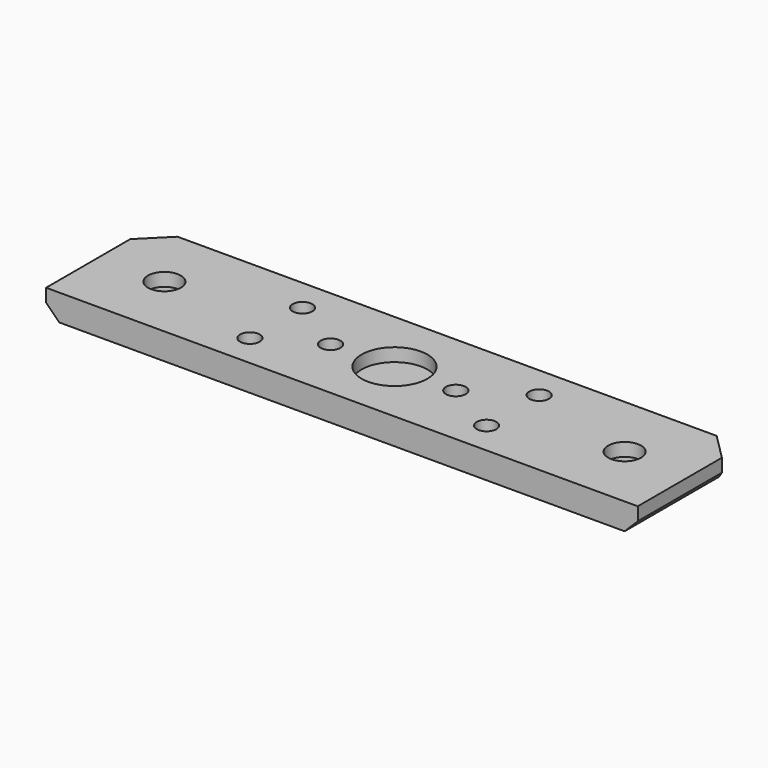
from build123d import *

# Parameters (mm, degrees)
CYLINDER1675_R              = 1.5
CYLINDER1675_DEPTH          = 20
CYLINDER1676_R              = 1.5
CYLINDER1676_DEPTH          = 20
COMPOUND830_ROLL_ANGLE      = 90
COMPOUND830_PLACEMENT_ANGLE = 90
CYLINDER1665_R              = 2.5
CYLINDER1665_DEPTH          = 20
CYLINDER1664_R              = 2.5
CYLINDER1664_DEPTH          = 20
CYLINDER1663_R              = 5
CYLINDER1663_DEPTH          = 5
CYLINDER1662_R              = 5
CYLINDER1662_DEPTH          = 5
CYLINDER1659_R              = 3
CYLINDER1659_DEPTH          = 3
CYLINDER1660_R              = 3
CYLINDER1660_DEPTH          = 3
CYLINDER1661_R              = 3
CYLINDER1661_DEPTH          = 3
CYLINDER1658_R              = 3
CYLINDER1658_DEPTH          = 3
CYLINDER1651_R              = 1.5
CYLINDER1651_DEPTH          = 60
CYLINDER1652_R              = 1.5
CYLINDER1652_DEPTH          = 60
CYLINDER1653_R              = 1.5
CYLINDER1653_DEPTH          = 60
CYLINDER1650_R              = 1.5
CYLINDER1650_DEPTH          = 60
CYLINDER1617_R              = 5
CYLINDER1617_DEPTH          = 5
BOX643_W                    = 90
BOX643_H                    = 20
BOX643_DEPTH                = 4
CHAMFER040_SIZE             = 4
CHAMFER041_SIZE             = 2


with BuildPart() as obj1:
    # Cylinder1675 → Cylinder1675 (new body)
    with BuildSketch(Plane(origin=(15.75, 114, 58.525), x_dir=(-1, 0, 0), z_dir=(0, 1, 0))):
        Circle(CYLINDER1675_R)
    extrude(amount=CYLINDER1675_DEPTH)


with BuildPart() as compound831:
    # Cylinder1676 → Cylinder1676 (new body)
    with BuildSketch(Plane(origin=(15.75, 114, 39.475), x_dir=(-1, 0, 0), z_dir=(0, 1, 0))):
        Circle(CYLINDER1676_R)
    extrude(amount=CYLINDER1676_DEPTH)

    # Compound830: union obj1
    add(obj1.part)


with BuildPart() as compound831_1:
    # Compound830 roll: moved
    add(compound831.part.rotate(Axis((0, 0, 0), (1, 0, 0)), COMPOUND830_ROLL_ANGLE))


with BuildPart() as compound831_2:
    # Compound830 placement: moved
    add(compound831_1.part.moved(Location((-49, 0, -96))).rotate(Axis((-49, 0, -96), (0, 0, 1)), COMPOUND830_PLACEMENT_ANGLE))


with BuildPart() as compound831_3:
    # Compound831 placement: moved
    add(compound831_2.part.moved(Location((0, 74, -72))))


with BuildPart() as obj2:
    # Cylinder1665 → Cylinder1665 (new body)
    with BuildSketch(Plane(origin=(-35, 90, -59), x_dir=(1, 0, 0), z_dir=(0, 0, 1))):
        Circle(CYLINDER1665_R)
    extrude(amount=CYLINDER1665_DEPTH)


with BuildPart() as compound817:
    # Cylinder1664 → Cylinder1664 (new body)
    with BuildSketch(Plane(origin=(35, 90, -59), x_dir=(1, 0, 0), z_dir=(0, 0, 1))):
        Circle(CYLINDER1664_R)
    extrude(amount=CYLINDER1664_DEPTH)

    # Compound817: union obj2
    add(obj2.part)


with BuildPart() as obj3:
    # Cylinder1663 → Cylinder1663 (new body)
    with BuildSketch(Plane(origin=(-35, 90, -59), x_dir=(1, 0, 0), z_dir=(0, 0, 1))):
        Circle(CYLINDER1663_R)
    extrude(amount=CYLINDER1663_DEPTH)


with BuildPart() as compound816:
    # Cylinder1662 → Cylinder1662 (new body)
    with BuildSketch(Plane(origin=(35, 90, -59), x_dir=(1, 0, 0), z_dir=(0, 0, 1))):
        Circle(CYLINDER1662_R)
    extrude(amount=CYLINDER1662_DEPTH)

    # Compound816: union obj3
    add(obj3.part)


with BuildPart() as obj4:
    # Cylinder1659 → Cylinder1659 (new body)
    with BuildSketch(Plane(origin=(18, 85, -57), x_dir=(1, 0, 0), z_dir=(0, 0, 1))):
        Circle(CYLINDER1659_R)
    extrude(amount=CYLINDER1659_DEPTH)


with BuildPart() as obj5:
    # Cylinder1660 → Cylinder1660 (new body)
    with BuildSketch(Plane(origin=(-18, 85, -57), x_dir=(1, 0, 0), z_dir=(0, 0, 1))):
        Circle(CYLINDER1660_R)
    extrude(amount=CYLINDER1660_DEPTH)


with BuildPart() as obj6:
    # Cylinder1661 → Cylinder1661 (new body)
    with BuildSketch(Plane(origin=(-18, 95, -57), x_dir=(1, 0, 0), z_dir=(0, 0, 1))):
        Circle(CYLINDER1661_R)
    extrude(amount=CYLINDER1661_DEPTH)


with BuildPart() as compound815:
    # Cylinder1658 → Cylinder1658 (new body)
    with BuildSketch(Plane(origin=(18, 95, -57), x_dir=(1, 0, 0), z_dir=(0, 0, 1))):
        Circle(CYLINDER1658_R)
    extrude(amount=CYLINDER1658_DEPTH)

    # Compound815: union obj4, obj5, obj6
    add(obj4.part)
    add(obj5.part)
    add(obj6.part)


with BuildPart() as obj7:
    # Cylinder1651 → Cylinder1651 (new body)
    with BuildSketch(Plane(origin=(18, 85, -57), x_dir=(1, 0, 0), z_dir=(0, 0, 1))):
        Circle(CYLINDER1651_R)
    extrude(amount=CYLINDER1651_DEPTH)


with BuildPart() as obj8:
    # Cylinder1652 → Cylinder1652 (new body)
    with BuildSketch(Plane(origin=(-18, 85, -57), x_dir=(1, 0, 0), z_dir=(0, 0, 1))):
        Circle(CYLINDER1652_R)
    extrude(amount=CYLINDER1652_DEPTH)


with BuildPart() as obj9:
    # Cylinder1653 → Cylinder1653 (new body)
    with BuildSketch(Plane(origin=(-18, 95, -57), x_dir=(1, 0, 0), z_dir=(0, 0, 1))):
        Circle(CYLINDER1653_R)
    extrude(amount=CYLINDER1653_DEPTH)


with BuildPart() as compound813:
    # Cylinder1650 → Cylinder1650 (new body)
    with BuildSketch(Plane(origin=(18, 95, -57), x_dir=(1, 0, 0), z_dir=(0, 0, 1))):
        Circle(CYLINDER1650_R)
    extrude(amount=CYLINDER1650_DEPTH)

    # Compound813: union obj7, obj8, obj9
    add(obj7.part)
    add(obj8.part)
    add(obj9.part)


with BuildPart() as obj10:
    # Cylinder1617 → Cylinder1617 (new body)
    with BuildSketch(Plane(origin=(0, 90, -54), x_dir=(1, 0, 0), z_dir=(0, 0, 1))):
        Circle(CYLINDER1617_R)
    extrude(amount=CYLINDER1617_DEPTH)


with BuildPart() as cut335:
    # Box643 → Box643 (new body)
    with BuildSketch(Plane(origin=(-45, 80, -56), x_dir=(1, 0, 0), z_dir=(0, 0, 1))):
        with Locations((45, 10)):
            Rectangle(BOX643_W, BOX643_H)
    extrude(amount=BOX643_DEPTH)

    # Cut310: cut obj10
    add(obj10.part, mode=Mode.SUBTRACT)

    # Cut326: cut Compound813
    add(compound813.part, mode=Mode.SUBTRACT)

    # Cut328: cut Compound815
    add(compound815.part, mode=Mode.SUBTRACT)

    # Cut329: cut Compound816
    add(compound816.part, mode=Mode.SUBTRACT)

    # Cut330: cut Compound817
    add(compound817.part, mode=Mode.SUBTRACT)

    # Chamfer040
    chamfer040_edges = [cut335.edges().sort_by_distance(p)[0] for p in [
        (-45, 100, -54),
        (45, 100, -54),
    ]]
    chamfer(chamfer040_edges, length=CHAMFER040_SIZE)

    # Chamfer041
    chamfer041_edges = [cut335.edges().sort_by_distance(p)[0] for p in [
        (-45, 88, -56),
        (45, 88, -56),
    ]]
    chamfer(chamfer041_edges, length=CHAMFER041_SIZE)

    # Cut335: cut Compound831
    add(compound831_3.part, mode=Mode.SUBTRACT)


solid = cut335.part
